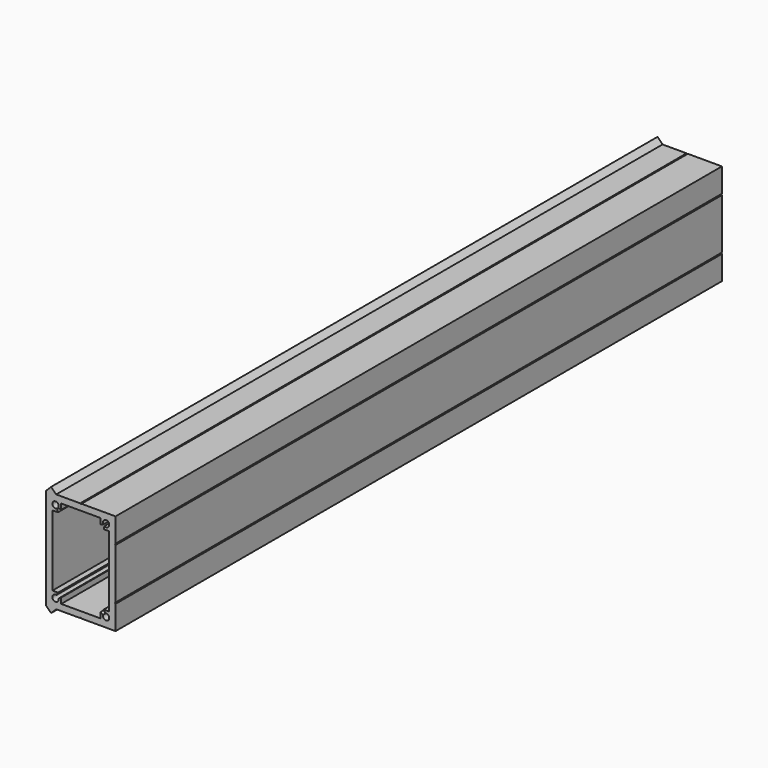
from build123d import *

# Parameters (mm, degrees)
F1_DEPTH = 600
F3_DEPTH = 600


with BuildPart() as f1:
    # F0 (on Front) → F1 (new body)
    with BuildSketch(Plane.XZ):
        Polygon((0, 80), (0, 0), (4, -4), (8, 0), (27, 0), (27.5, 0.5), (28, 0), (55, 0), (55, 19), (54.5, 19.5), (55, 20), (55, 60), (54.5, 60.5), (55, 61), (55, 80), (28, 80), (27.5, 79.5), (27, 80), (8, 80), (4, 84), align=None)
    extrude(amount=F1_DEPTH)

    # F2 (on Front) → F3 (cut, through all)
    with BuildSketch(Plane.XZ):
        with BuildLine():
            Line((5, 12), (9.398414, 12))
            Line((9.398414, 12), (8.156498, 9.912263))
            ThreePointArc((8.156498, 9.912263), (5.732233, 5.732233), (9.912263, 8.156498))
            Line((9.912263, 8.156498), (12, 9.398414))
            Line((12, 9.398414), (12, 5))
            Line((12, 5), (43, 5))
            Line((43, 5), (43, 9.398414))
            Line((43, 9.398414), (45.087737, 8.156498))
            ThreePointArc((45.087737, 8.156498), (49.267767, 5.732233), (46.843502, 9.912263))
            Line((46.843502, 9.912263), (45.601586, 12))
            Line((45.601586, 12), (50, 12))
            Line((50, 12), (50, 68))
            Line((50, 68), (45.601586, 68))
            Line((45.601586, 68), (46.230309, 70.346425))
            ThreePointArc((46.230309, 70.346425), (49.267767, 74.267767), (45.346425, 71.230309))
            Line((45.346425, 71.230309), (43, 70.601586))
            Line((43, 70.601586), (43, 75))
            Line((43, 75), (12, 75))
            Line((12, 75), (12, 70.601586))
            Line((12, 70.601586), (9.653575, 71.230309))
            ThreePointArc((9.653575, 71.230309), (5.732233, 74.267767), (8.769691, 70.346425))
            Line((8.769691, 70.346425), (9.398414, 68))
            Line((9.398414, 68), (5, 68))
            Line((5, 68), (5, 12))
        make_face()
    extrude(amount=F3_DEPTH, mode=Mode.SUBTRACT)


solid = f1.part
